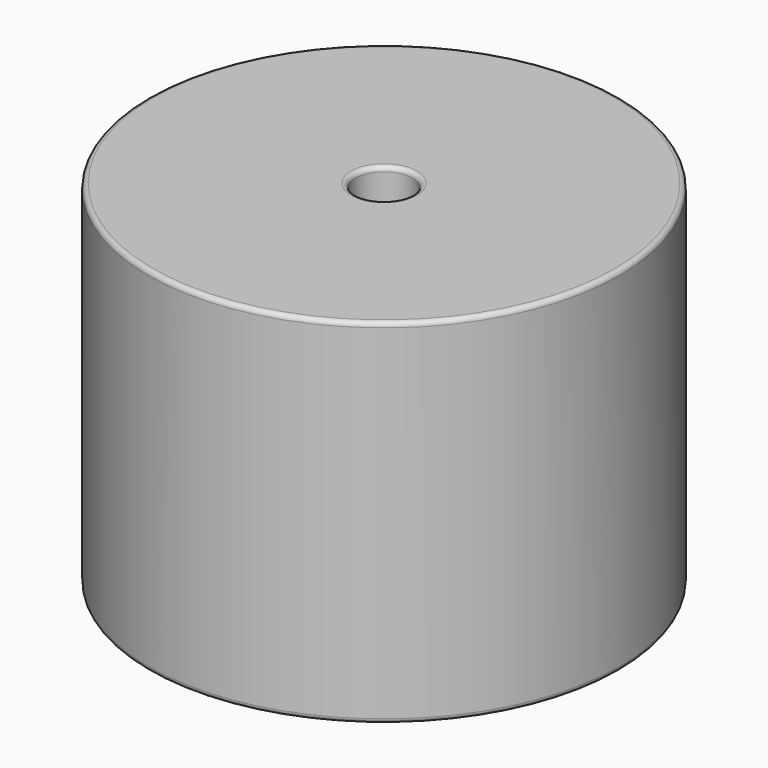
from build123d import *

# Parameters (mm, degrees)
SKETCH001_R       = 0.8
PAD001_DEPTH      = 19.05
PAD001_DEPTH_BACK = 3.5
SKETCH_R          = 25.4
SKETCH_R_2        = 3.05
PAD_DEPTH         = 38.1
FILLET_R          = 0.5


with BuildPart() as pad001:
    # Sketch001 → Pad001 (new body, two sides)
    with BuildSketch(Plane.XY.offset(0.5)) as pad001_sk:
        Circle(SKETCH001_R)
        with Locations((34.29, 0)):
            Circle(SKETCH001_R)
    extrude(amount=PAD001_DEPTH)
    extrude(pad001_sk.sketch, amount=-PAD001_DEPTH_BACK)


with BuildPart() as fillet_body:
    # Sketch → Pad (new body)
    with BuildSketch(Plane.XY.offset(0.1)):
        with Locations((17.145, 0)):
            Circle(SKETCH_R)
        with Locations((17.145, 0)):
            Circle(SKETCH_R_2, mode=Mode.SUBTRACT)
    extrude(amount=PAD_DEPTH)

    # Fillet
    fillet_edges = [fillet_body.edges().sort_by_distance(p)[0] for p in [
        (14.095, 0, 38.2),
        (-8.255, 0, 38.2),
        (-8.255, 0, 0.1),
    ]]
    fillet(fillet_edges, radius=FILLET_R)


solid = Compound([pad001.part, fillet_body.part])
